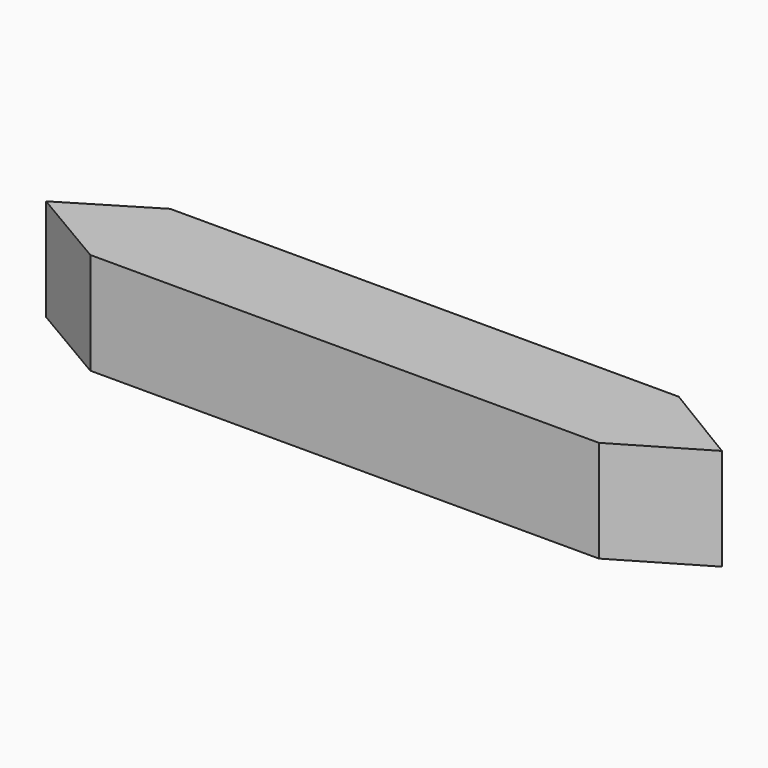
from build123d import *

# Parameters (mm, degrees)
F1_DEPTH = 12.7
F3_D     = 6.35
F3_DEPTH = 8.89
F3_TIP   = 1.9077324654


with BuildPart() as f1:
    # F0 (on Top) → F1 (new body)
    with BuildSketch(Plane.XY):
        Polygon((10.4240838, 6.3039113859), (0, 0), (10.4240838, -6.1420886141), (73.7970838, -6.1420886141), (84.2211676, 0), (73.7970838, 6.3039113859), align=None)
    extrude(amount=F1_DEPTH)

    # F3
    with Locations(Plane(origin=(0, 0, 0), x_dir=(1, 0, 0), z_dir=(0, 0, -1))):
        with Locations((42.0470838, -0.2079113859)):
            Hole(F3_D / 2, depth=F3_DEPTH)
            with Locations((0, 0, -(F3_DEPTH + F3_TIP / 2))):  # 118° drill point
                Cone(0, F3_D / 2, F3_TIP, mode=Mode.SUBTRACT)


solid = f1.part
